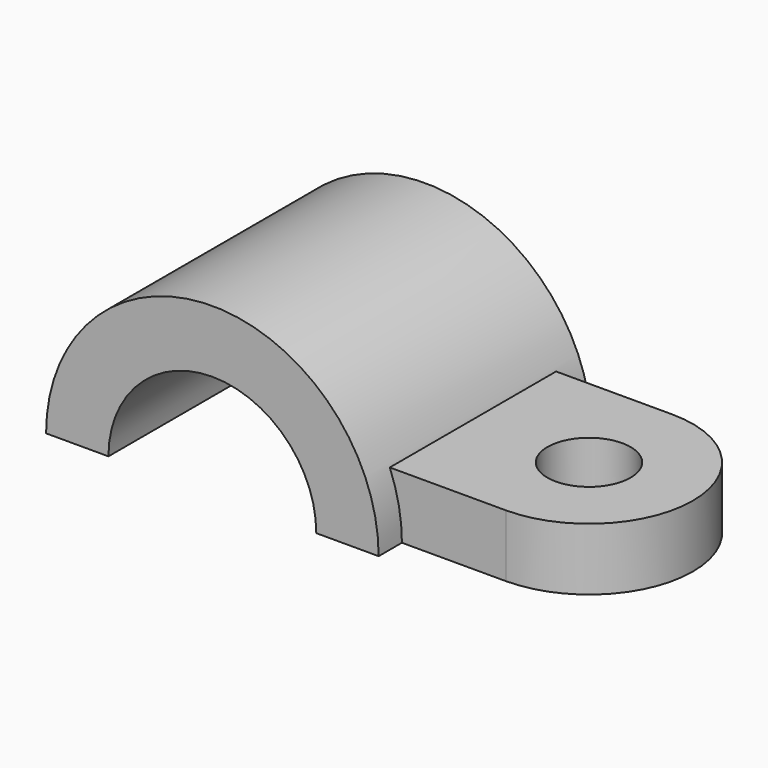
from build123d import *

# Parameters (mm, degrees)
PAD_DEPTH    = 32
PAD001_DEPTH = 15
SKETCH002_R  = 10
POCKET_DEPTH = 15.001


with BuildPart() as part:
    # Sketch → Pad (new body, symmetric)
    with BuildSketch(Plane.XZ):
        with BuildLine():
            ThreePointArc((25, 0), (0, 25), (-25, 0))
            Line((-40, 0), (-25, 0))
            ThreePointArc((40, 0), (0, 40), (-40, 0))
            Line((25, 0), (40, 0))
        make_face()
    extrude(amount=PAD_DEPTH, both=True)

    # Sketch001 → Pad001 (join)
    with BuildSketch(Plane.XY):
        with BuildLine():
            Line((65, 25), (25, 25))
            Line((25, 25), (25, -25))
            Line((25, -25), (65, -25))
            ThreePointArc((65, -25), (90, 0), (65, 25))
        make_face()
    extrude(amount=PAD001_DEPTH)

    # Sketch002 (on Face10 of Pad001) → Pocket (cut, through all)
    with BuildSketch(Plane(origin=(0, 0, 15), x_dir=(-1, 0, 0), z_dir=(0, 0, 1))):
        with Locations((-65, 0)):
            Circle(SKETCH002_R)
    extrude(amount=-POCKET_DEPTH, mode=Mode.SUBTRACT)


solid = part.part
